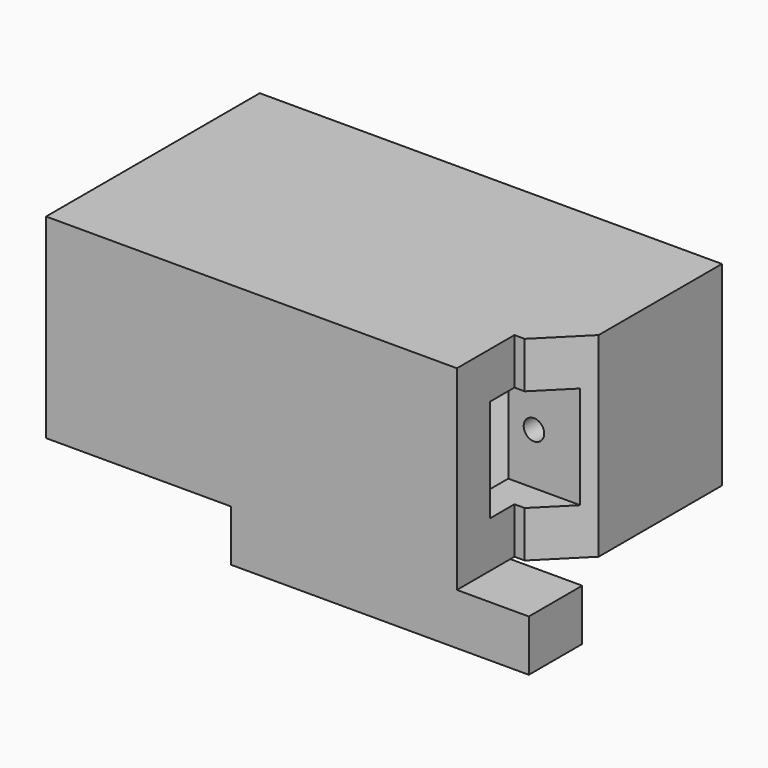
from build123d import *

# Parameters (mm, degrees)
CYLINDER_R             = 1
CYLINDER_DEPTH         = 20
CYLINDER_ROLL_ANGLE    = 90
BOX003_W               = 23
BOX003_H               = 19
BOX003_DEPTH           = 13
BOX004_W               = 33
BOX004_H               = 3
BOX004_DEPTH           = 13
CYLINDER001_R          = 1
CYLINDER001_DEPTH      = 20
CYLINDER001_ROLL_ANGLE = 90
BOX006_W               = 13
BOX006_H               = 6
BOX006_DEPTH           = 10
BOX005_W               = 5
BOX005_H               = 19
BOX005_DEPTH           = 19
CHAMFER_SIZE           = 4
BOX_W                  = 29
BOX_H                  = 6.5
BOX_DEPTH              = 5
BOX001_W               = 4.5
BOX001_H               = 10
BOX001_DEPTH           = 5
BOX002_W               = 40
BOX002_H               = 26
BOX002_DEPTH           = 19


with BuildPart() as cilindro:
    # Cylinder → Cylinder (new body)
    with BuildSketch(Plane.XY):
        Circle(CYLINDER_R)
    extrude(amount=CYLINDER_DEPTH)


with BuildPart() as cilindro_1:
    # Cylinder roll: moved
    add(cilindro.part.rotate(Axis((0, 0, 0), (1, 0, 0)), CYLINDER_ROLL_ANGLE))


with BuildPart() as cilindro_2:
    # Cylinder placement: moved
    add(cilindro_1.part.moved(Location((-2.5, 55, 6.5))))


with BuildPart() as cubo003:
    # Box003 → Box003 (new body)
    with BuildSketch(Plane(origin=(0, 33, 0), x_dir=(1, 0, 0), z_dir=(0, 0, 1))):
        with Locations((11.5, 9.5)):
            Rectangle(BOX003_W, BOX003_H)
    extrude(amount=BOX003_DEPTH)


with BuildPart() as fusion002:
    # Box004 → Box004 (new body)
    with BuildSketch(Plane(origin=(-5, 52, 0), x_dir=(1, 0, 0), z_dir=(0, 0, 1))):
        with Locations((16.5, 1.5)):
            Rectangle(BOX004_W, BOX004_H)
    extrude(amount=BOX004_DEPTH)

    # Fusion002: union Cubo003
    add(cubo003.part)


with BuildPart() as servo_model:
    # Cylinder001 → Cylinder001 (new body)
    with BuildSketch(Plane.XY):
        Circle(CYLINDER001_R)
    extrude(amount=CYLINDER001_DEPTH)


with BuildPart() as servo_model_1:
    # Cylinder001 roll: moved
    add(servo_model.part.rotate(Axis((0, 0, 0), (1, 0, 0)), CYLINDER001_ROLL_ANGLE))


with BuildPart() as servo_model_2:
    # Cylinder001 placement: moved
    add(servo_model_1.part.moved(Location((25.5, 55, 6.5))))

    # Fusion003: union Cilindro, Fusion002
    add(cilindro_2.part)
    add(fusion002.part)


with BuildPart() as servo_model_3:
    # Fusion003 placement: moved
    add(servo_model_2.part.moved(Location((-4, -1, 13))))


with BuildPart() as servo_cable_model:
    # Box006 → Box006 (new body)
    with BuildSketch(Plane(origin=(17, 32, 14.5), x_dir=(1, 0, 0), z_dir=(0, 0, 1))):
        with Locations((6.5, 3)):
            Rectangle(BOX006_W, BOX006_H)
    extrude(amount=BOX006_DEPTH)

    # Fusion005: union Servo_Model
    add(servo_model_3.part)


with BuildPart() as servo_cable_model_1:
    # Fusion005 placement: moved
    add(servo_cable_model.part.moved(Location((0, -28, 0))))


with BuildPart() as chamfer_body:
    # Box005 → Box005 (new body)
    with BuildSketch(Plane(origin=(22, 7, 10), x_dir=(1, 0, 0), z_dir=(0, 0, 1))):
        with Locations((2.5, 9.5)):
            Rectangle(BOX005_W, BOX005_H)
    extrude(amount=BOX005_DEPTH)

    # Chamfer
    chamfer_edges = [chamfer_body.edges().sort_by_distance(p)[0] for p in [
        (27, 7, 19.5),
    ]]
    chamfer(chamfer_edges, length=CHAMFER_SIZE)


with BuildPart() as cubo:
    # Box → Box (new body)
    with BuildSketch(Plane.XY.offset(5)):
        with Locations((14.5, 3.25)):
            Rectangle(BOX_W, BOX_H)
    extrude(amount=BOX_DEPTH)


with BuildPart() as fusion:
    # Box001 → Box001 (new body)
    with BuildSketch(Plane(origin=(5.5, 6.5, 5), x_dir=(1, 0, 0), z_dir=(0, 0, 1))):
        with Locations((2.25, 5)):
            Rectangle(BOX001_W, BOX001_H)
    extrude(amount=BOX001_DEPTH)

    # Fusion: union Cubo
    add(cubo.part)


with BuildPart() as obj1:
    # Box002 → Box002 (new body)
    with BuildSketch(Plane(origin=(-18, 0, 10), x_dir=(1, 0, 0), z_dir=(0, 0, 1))):
        with Locations((20, 13)):
            Rectangle(BOX002_W, BOX002_H)
    extrude(amount=BOX002_DEPTH)

    # Fusion001: union Fusion
    add(fusion.part)

    # Fusion004: union Chamfer body
    add(chamfer_body.part)

    # Cut: cut Servo_Cable_model
    add(servo_cable_model_1.part, mode=Mode.SUBTRACT)


with BuildPart() as obj1_1:
    # Cut placement: moved
    add(obj1.part.moved(Location((0, 0, -5))))


solid = obj1_1.part
